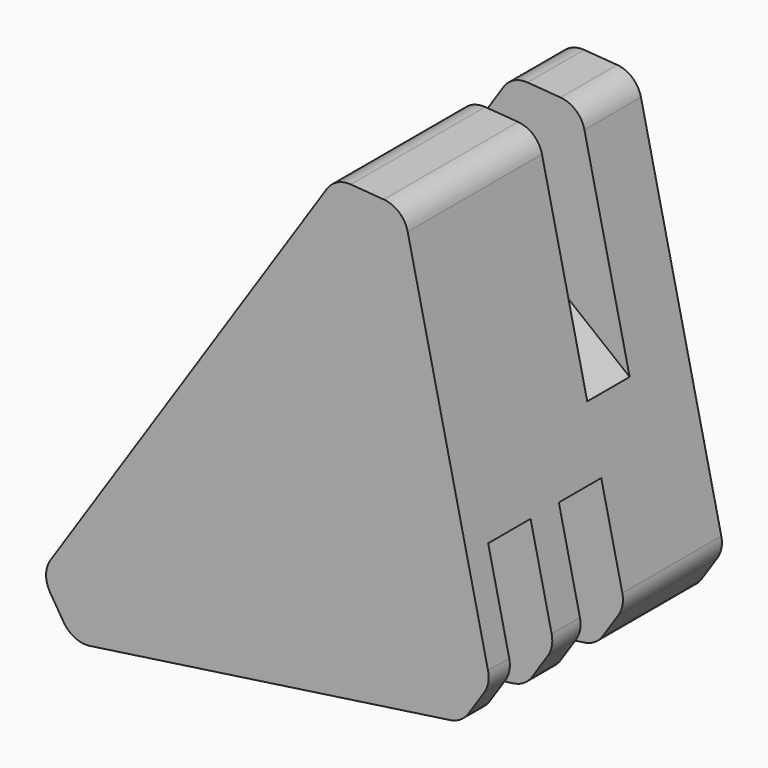
from build123d import *

# Parameters (mm, degrees)
PAD044_DEPTH = 6
PAD045_DEPTH = 6
PAD046_DEPTH = 6
PAD047_DEPTH = 6
PAD048_DEPTH = 6
PAD039_DEPTH = 33
FILLET021_R  = 3
FILLET022_R  = 3


with BuildPart() as pad044:
    # Sketch048 → Pad044 (new body)
    with BuildSketch(Plane.XZ.offset(8)):
        Polygon((-14.595035, 49.426792), (-21.11467, 37.733963), (4.396957, 17.395527), (4.396957, 50.985836), align=None)
    extrude(amount=PAD044_DEPTH)


with BuildPart() as pad045:
    # Sketch049 → Pad045 (new body)
    with BuildSketch(Plane.XZ.offset(4)):
        Polygon((-44.716217, 4.039343), (-16.086502, -8.007815), (-47.125652, -16.724289), align=None)
    extrude(amount=PAD045_DEPTH)


with BuildPart() as pad046:
    # Sketch050 → Pad046 (new body)
    with BuildSketch(Plane.XZ.offset(24)):
        Polygon((-44.716217, 4.039343), (-16.086502, -8.007815), (-47.125652, -16.724289), align=None)
    extrude(amount=PAD046_DEPTH)


with BuildPart() as pad047:
    # Sketch051 → Pad047 (new body)
    with BuildSketch(Plane.XZ.offset(14)):
        Polygon((5.367801, 13.680764), (-7.457918, 6.840382), (-11.733156, -9.120509), (13.253242, -11.590648), (11.448138, 11.685653), align=None)
    extrude(amount=PAD047_DEPTH)


with BuildPart() as pad048:
    # Sketch052 → Pad048 (new body)
    with BuildSketch(Plane.XZ.offset(24)):
        Polygon((5.367801, 13.680764), (-7.457918, 6.840382), (-11.733156, -9.120509), (13.253242, -11.590648), (11.448138, 11.685653), align=None)
    extrude(amount=PAD048_DEPTH)


with BuildPart() as cut019:
    # Sketch044 → Pad039 (new body)
    with BuildSketch(Plane(origin=(0, 0, 0), x_dir=(0.848048, 0, 0.529919), z_dir=(0, -1, 0))):
        Polygon((-40.765351, 19.72502), (-40.765351, 12.915253), (-0.082344, -5.035194), (5.261885, -2.605449), (20.317712, 40.085552), (14.098928, 44.660699), align=None)
    extrude(amount=PAD039_DEPTH)

    # Fillet021
    fillet021_edges = [cut019.edges().sort_by_distance(p)[0] for p in [
        (-4.011709, -16.5, 44.761223),
        (-11.709995, -16.5, 45.345714),
    ]]
    fillet(fillet021_edges, radius=FILLET021_R)

    # Fillet022
    fillet022_edges = [cut019.edges().sort_by_distance(p)[0] for p in [
        (5.843009, -16.5, 0.578828),
        (2.598414, -16.5, -4.313722),
        (-41.41502, -16.5, -10.649589),
        (-45.023647, -16.5, -4.874579),
    ]]
    fillet(fillet022_edges, radius=FILLET022_R)

    # Cut011: cut Pad048
    add(pad048.part, mode=Mode.SUBTRACT)

    # Cut012: cut Pad047
    add(pad047.part, mode=Mode.SUBTRACT)

    # Cut013: cut Pad046
    add(pad046.part, mode=Mode.SUBTRACT)

    # Cut014: cut Pad045
    add(pad045.part, mode=Mode.SUBTRACT)

    # Cut019: cut Pad044
    add(pad044.part, mode=Mode.SUBTRACT)


solid = cut019.part
